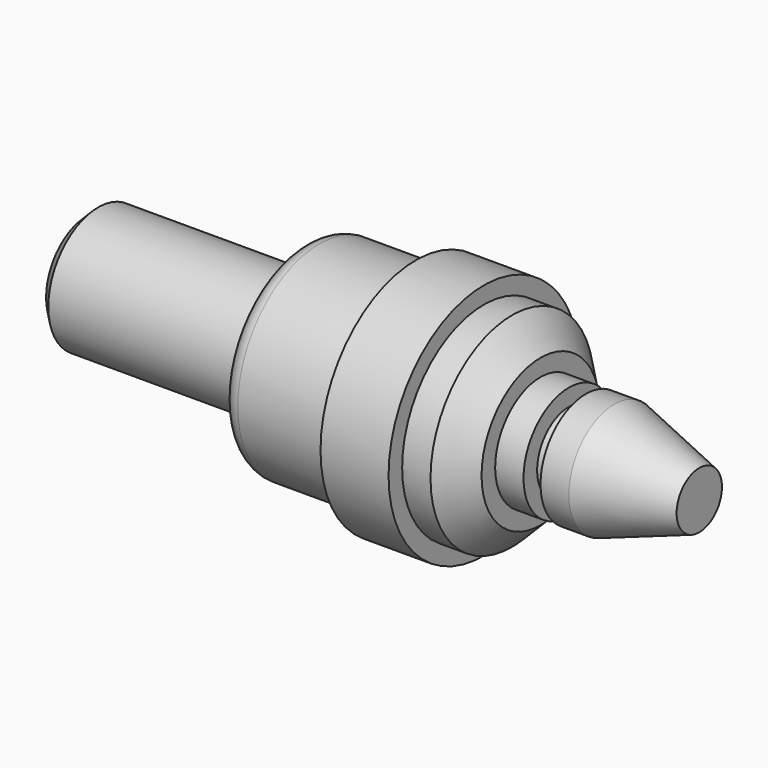
from build123d import *

# Parameters (mm, degrees)
F2_SIZE2 = 2
F2_SIZE  = 2
F3_R     = 3
F4_SIZE  = 5


with BuildPart() as f1:
    # F0 (on Top) → F1 (revolve)
    with BuildSketch(Plane.XY):
        Polygon((68.342246, 0), (-39.657754, 0), (-39.657754, -11), (-1.657754, -11), (-1.657754, -18), (18.342246, -18), (18.342246, -21), (30.342246, -21), (30.342246, -18), (40.342246, -18), (40.342246, -10), (45.342246, -10), (45.342246, -7), (48.342246, -7), (48.342246, -10), (53.342246, -10), (68.342246, -5), align=None)
    revolve(axis=Axis((14.342246, 0, 0), (1, 0, 0)))

    # F2
    f2_edges = [f1.edges().sort_by_distance(p)[0] for p in [
        (-39.657754, 11, 0),
    ]]
    chamfer(f2_edges, length=F2_SIZE, length2=F2_SIZE2)

    # F3
    f3_edges = [f1.edges().sort_by_distance(p)[0] for p in [
        (-1.657754, 18, 0),
        (-1.657754, 11, 0),
    ]]
    fillet(f3_edges, radius=F3_R)

    # F4
    f4_edges = [f1.edges().sort_by_distance(p)[0] for p in [
        (40.342246, 18, 0),
    ]]
    chamfer(f4_edges, length=F4_SIZE)


solid = f1.part
